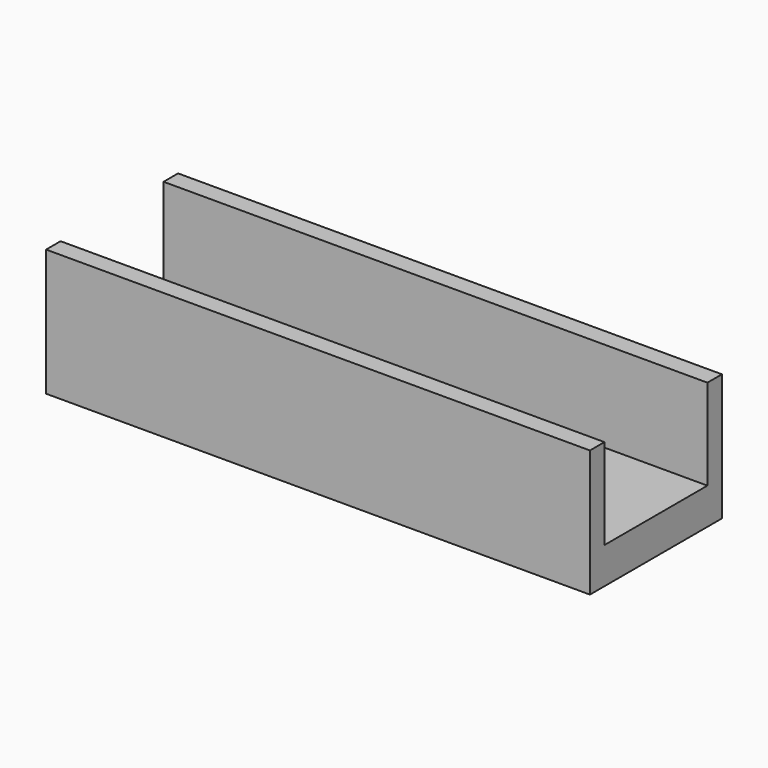
from build123d import *

# Parameters (mm, degrees)
F0_W     = 150
F0_H     = 45.5
F1_DEPTH = 35
F2_W     = 150
F2_H     = 35.5
F3_DEPTH = 25
F4_R     = 12.75
F5_DEPTH = 8.5
F6_D     = 6.5
F6_DEPTH = 5
F6_TIP   = 1.9527970118


with BuildPart() as f1:
    # F0 (on Top) → F1 (new body)
    with BuildSketch(Plane.XY):
        Rectangle(F0_W, F0_H)
    extrude(amount=F1_DEPTH)

    # F2 (on face) → F3 (cut)
    with BuildSketch(Plane.XY.offset(35)):
        Rectangle(F2_W, F2_H)
    extrude(amount=-F3_DEPTH, mode=Mode.SUBTRACT)

    # F4 (on face) → F5 (cut)
    with BuildSketch(Plane.XY.offset(10)):
        Circle(F4_R)
    extrude(amount=-F5_DEPTH, mode=Mode.SUBTRACT)

    # F6
    with Locations(Plane.XY.offset(10)):
        with Locations((55, 0), (-55, 0)):
            Hole(F6_D / 2, depth=F6_DEPTH)
            with Locations((0, 0, -(F6_DEPTH + F6_TIP / 2))):  # 118° drill point
                Cone(0, F6_D / 2, F6_TIP, mode=Mode.SUBTRACT)


solid = f1.part
